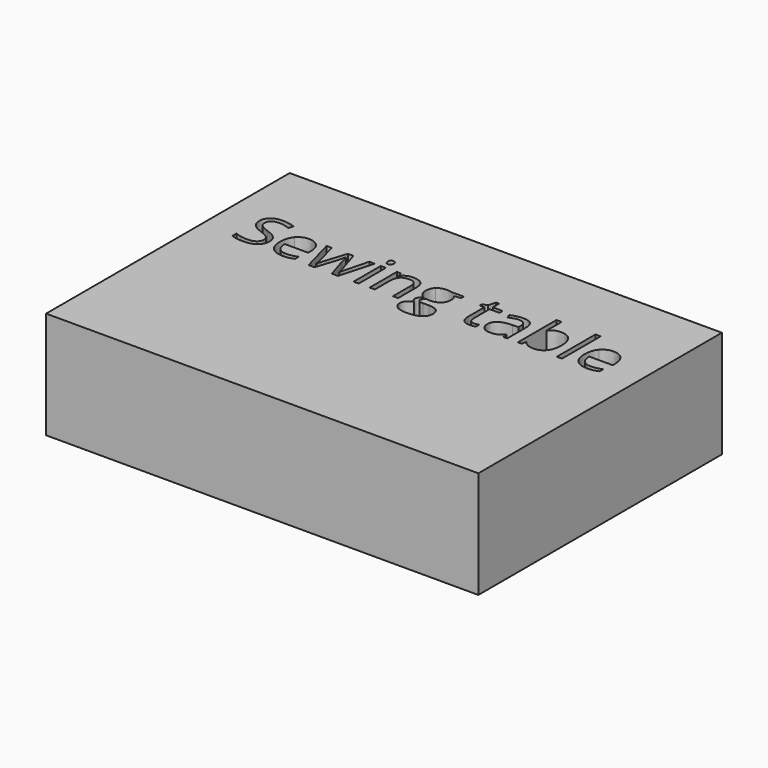
from build123d import *

# Parameters (mm, degrees)
F0_W     = 2921
F0_H     = 2057.4
F0_W_2   = 34.8487892566
F0_H_2   = 229.975150682
F0_H_3   = 326.5311409538
F1_DEPTH = 723.9


with BuildPart() as f1:
    # F0 (on Top) → F1 (new body)
    with BuildSketch(Plane.XY):
        Rectangle(F0_W, F0_H)
        with BuildLine():
            add(Edge.make_bspline(
                [(-1072.8592576927, 402.807852993), (-1054.7298297557, 383.0669203505), (-1054.7298297557, 351.6425785931)],
                knots=[0, 0, 0, 1, 1, 1], degree=2))
            add(Edge.make_bspline(
                [(-1054.7298297557, 351.6425785931), (-1054.7298297557, 311.1535228671), (-1084.1062176166, 288.4581649312)],
                knots=[0, 0, 0, 1, 1, 1], degree=2))
            add(Edge.make_bspline(
                [(-1084.1062176166, 288.4581649312), (-1113.4826054774, 265.7628069953), (-1163.8421275246, 265.7628069953)],
                knots=[0, 0, 0, 1, 1, 1], degree=2))
            add(Edge.make_bspline(
                [(-1163.8421275246, 265.7628069953), (-1218.3647033943, 265.7628069953), (-1247.7746642699, 279.8634731685)],
                knots=[0, 0, 0, 1, 1, 1], degree=2))
            Line((-1247.7746642699, 279.8634731685), (-1247.7746642699, 314.2422402194))
            add(Edge.make_bspline(
                [(-1247.7746642699, 314.2422402194), (-1228.8394839801, 306.3190087506), (-1206.61414825, 301.6859327223)],
                knots=[0, 0, 0, 1, 1, 1], degree=2))
            add(Edge.make_bspline(
                [(-1206.61414825, 301.6859327223), (-1184.3888125198, 297.0528566939), (-1162.5663529661, 297.0528566939)],
                knots=[0, 0, 0, 1, 1, 1], degree=2))
            add(Edge.make_bspline(
                [(-1162.5663529661, 297.0528566939), (-1126.9118113567, 297.0528566939), (-1108.8495294491, 310.5827816173)],
                knots=[0, 0, 0, 1, 1, 1], degree=2))
            add(Edge.make_bspline(
                [(-1108.8495294491, 310.5827816173), (-1090.7872475415, 324.1127065406), (-1090.7872475415, 348.2852771233)],
                knots=[0, 0, 0, 1, 1, 1], degree=2))
            add(Edge.make_bspline(
                [(-1090.7872475415, 348.2852771233), (-1090.7872475415, 364.1988860902), (-1097.1996933488, 374.3715095437)],
                knots=[0, 0, 0, 1, 1, 1], degree=2))
            add(Edge.make_bspline(
                [(-1097.1996933488, 374.3715095437), (-1103.6121391562, 384.5441329972), (-1118.6192767262, 393.1723977746)],
                knots=[0, 0, 0, 1, 1, 1], degree=2))
            add(Edge.make_bspline(
                [(-1118.6192767262, 393.1723977746), (-1133.6264142963, 401.800662552), (-1164.245003701, 412.6783193142)],
                knots=[0, 0, 0, 1, 1, 1], degree=2))
            add(Edge.make_bspline(
                [(-1164.245003701, 412.6783193142), (-1207.0170244264, 427.9876140166), (-1225.3814634662, 448.9707482029)],
                knots=[0, 0, 0, 1, 1, 1], degree=2))
            add(Edge.make_bspline(
                [(-1225.3814634662, 448.9707482029), (-1243.7459025061, 469.9538823892), (-1243.7459025061, 503.7283351755)],
                knots=[0, 0, 0, 1, 1, 1], degree=2))
            add(Edge.make_bspline(
                [(-1243.7459025061, 503.7283351755), (-1243.7459025061, 539.1814386967), (-1217.1225018505, 560.164572883)],
                knots=[0, 0, 0, 1, 1, 1], degree=2))
            add(Edge.make_bspline(
                [(-1217.1225018505, 560.164572883), (-1190.4991011949, 581.1477070693), (-1146.5855979698, 581.1477070693)],
                knots=[0, 0, 0, 1, 1, 1], degree=2))
            add(Edge.make_bspline(
                [(-1146.5855979698, 581.1477070693), (-1100.8591519509, 581.1477070693), (-1062.4516231363, 564.3611997203)],
                knots=[0, 0, 0, 1, 1, 1], degree=2))
            Line((-1062.4516231363, 564.3611997203), (-1073.5978640161, 533.3397341392))
            add(Edge.make_bspline(
                [(-1073.5978640161, 533.3397341392), (-1111.6025166543, 549.2533431061), (-1147.4584963519, 549.2533431061)],
                knots=[0, 0, 0, 1, 1, 1], degree=2))
            add(Edge.make_bspline(
                [(-1147.4584963519, 549.2533431061), (-1175.7941207571, 549.2533431061), (-1191.7413027387, 537.0999117854)],
                knots=[0, 0, 0, 1, 1, 1], degree=2))
            add(Edge.make_bspline(
                [(-1191.7413027387, 537.0999117854), (-1207.6884847203, 524.9464804647), (-1207.6884847203, 503.3254589991)],
                knots=[0, 0, 0, 1, 1, 1], degree=2))
            add(Edge.make_bspline(
                [(-1207.6884847203, 503.3254589991), (-1207.6884847203, 487.4118500322), (-1201.8132071481, 477.205653564)],
                knots=[0, 0, 0, 1, 1, 1], degree=2))
            add(Edge.make_bspline(
                [(-1201.8132071481, 477.205653564), (-1195.937929576, 466.9994570958), (-1181.9715554616, 458.5054843771)],
                knots=[0, 0, 0, 1, 1, 1], degree=2))
            add(Edge.make_bspline(
                [(-1181.9715554616, 458.5054843771), (-1168.0051813472, 450.0115116585), (-1139.2666807656, 439.7381691609)],
                knots=[0, 0, 0, 1, 1, 1], degree=2))
            add(Edge.make_bspline(
                [(-1139.2666807656, 439.7381691609), (-1090.9886856297, 422.5487856355), (-1072.8592576927, 402.807852993)],
                knots=[0, 0, 0, 1, 1, 1], degree=2))
        make_face(mode=Mode.SUBTRACT)
        with BuildLine():
            add(Edge.make_bspline(
                [(-860.2749286243, 269.2544005239), (-876.7257058264, 265.7628069953), (-900.0253780269, 265.7628069953)],
                knots=[0, 0, 0, 1, 1, 1], degree=2))
            add(Edge.make_bspline(
                [(-900.0253780269, 265.7628069953), (-950.9892143386, 265.7628069953), (-980.4998942582, 296.8514186058)],
                knots=[0, 0, 0, 1, 1, 1], degree=2))
            add(Edge.make_bspline(
                [(-980.4998942582, 296.8514186058), (-1010.0105741779, 327.9400302162), (-1010.0105741779, 383.0669203505)],
                knots=[0, 0, 0, 1, 1, 1], degree=2))
            add(Edge.make_bspline(
                [(-1010.0105741779, 383.0669203505), (-1010.0105741779, 438.73097872), (-982.6149941842, 471.4646680506)],
                knots=[0, 0, 0, 1, 1, 1], degree=2))
            add(Edge.make_bspline(
                [(-982.6149941842, 471.4646680506), (-955.2194141905, 504.1983573813), (-909.022945966, 504.1983573813)],
                knots=[0, 0, 0, 1, 1, 1], degree=2))
            add(Edge.make_bspline(
                [(-909.022945966, 504.1983573813), (-865.8480490642, 504.1983573813), (-840.6682880406, 475.762013932)],
                knots=[0, 0, 0, 1, 1, 1], degree=2))
            add(Edge.make_bspline(
                [(-840.6682880406, 475.762013932), (-815.488527017, 447.3256704827), (-815.488527017, 400.7263260817)],
                knots=[0, 0, 0, 1, 1, 1], degree=2))
            Line((-815.488527017, 400.7263260817), (-815.488527017, 378.7024284397))
            Line((-815.488527017, 378.7024284397), (-973.8860103627, 378.7024284397))
            add(Edge.make_bspline(
                [(-973.8860103627, 378.7024284397), (-972.8116738924, 338.2133727138), (-953.4064713968, 317.2302385275)],
                knots=[0, 0, 0, 1, 1, 1], degree=2))
            add(Edge.make_bspline(
                [(-953.4064713968, 317.2302385275), (-934.0012689013, 296.2471043412), (-898.7496034683, 296.2471043412)],
                knots=[0, 0, 0, 1, 1, 1], degree=2))
            add(Edge.make_bspline(
                [(-898.7496034683, 296.2471043412), (-861.6178492122, 296.2471043412), (-825.3589933383, 311.7578371317)],
                knots=[0, 0, 0, 1, 1, 1], degree=2))
            Line((-825.3589933383, 311.7578371317), (-825.3589933383, 280.6692255213))
            add(Edge.make_bspline(
                [(-825.3589933383, 280.6692255213), (-843.8241514222, 272.7459940525), (-860.2749286243, 269.2544005239)],
                knots=[0, 0, 0, 1, 1, 1], degree=2))
        make_face(mode=Mode.SUBTRACT)
        with BuildLine():
            Line((-526.8948926721, 269.9930068473), (-568.2568467802, 269.9930068473))
            Line((-568.2568467802, 269.9930068473), (-610.424553241, 404.8893799043))
            add(Edge.make_bspline(
                [(-610.424553241, 404.8893799043), (-614.4533150048, 417.3113953426), (-625.3309717669, 461.1577525383)],
                knots=[0, 0, 0, 1, 1, 1], degree=2))
            Line((-625.3309717669, 461.1577525383), (-627.0096225019, 461.1577525383))
            add(Edge.make_bspline(
                [(-627.0096225019, 461.1577525383), (-635.4028761764, 424.4288744586), (-641.7146029396, 404.4865037279)],
                knots=[0, 0, 0, 1, 1, 1], degree=2))
            Line((-641.7146029396, 404.4865037279), (-685.158083959, 269.9930068473))
            Line((-685.158083959, 269.9930068473), (-725.4457015967, 269.9930068473))
            Line((-725.4457015967, 269.9930068473), (-788.1600930528, 499.9681575293))
            Line((-788.1600930528, 499.9681575293), (-751.6326530612, 499.9681575293))
            add(Edge.make_bspline(
                [(-751.6326530612, 499.9681575293), (-729.4073173311, 413.2826335788), (-717.7574812308, 367.9590637363)],
                knots=[0, 0, 0, 1, 1, 1], degree=2))
            add(Edge.make_bspline(
                [(-717.7574812308, 367.9590637363), (-706.1076451306, 322.6354938939), (-704.4289943957, 306.9233230152)],
                knots=[0, 0, 0, 1, 1, 1], degree=2))
            Line((-704.4289943957, 306.9233230152), (-702.7503436608, 306.9233230152))
            add(Edge.make_bspline(
                [(-702.7503436608, 306.9233230152), (-700.4673786613, 318.8753162477), (-695.3307074125, 337.8776425668)],
                knots=[0, 0, 0, 1, 1, 1], degree=2))
            add(Edge.make_bspline(
                [(-695.3307074125, 337.8776425668), (-690.1940361637, 356.879968886), (-686.3667124881, 367.9590637363)],
                knots=[0, 0, 0, 1, 1, 1], degree=2))
            Line((-686.3667124881, 367.9590637363), (-644.1990060273, 499.9681575293))
            Line((-644.1990060273, 499.9681575293), (-606.4629375066, 499.9681575293))
            Line((-606.4629375066, 499.9681575293), (-565.3024214867, 367.9590637363))
            add(Edge.make_bspline(
                [(-565.3024214867, 367.9590637363), (-553.5518663424, 331.9016459506), (-549.3888125198, 307.3261991916)],
                knots=[0, 0, 0, 1, 1, 1], degree=2))
            Line((-549.3888125198, 307.3261991916), (-547.7101617849, 307.3261991916))
            add(Edge.make_bspline(
                [(-547.7101617849, 307.3261991916), (-546.8372634028, 314.9137005133), (-543.1778048007, 330.6594444067)],
                knots=[0, 0, 0, 1, 1, 1], degree=2))
            add(Edge.make_bspline(
                [(-543.1778048007, 330.6594444067), (-539.5183461986, 346.4051883002), (-499.432166649, 499.9681575293)],
                knots=[0, 0, 0, 1, 1, 1], degree=2))
            Line((-499.432166649, 499.9681575293), (-463.3747488633, 499.9681575293))
            Line((-463.3747488633, 499.9681575293), (-526.8948926721, 269.9930068473))
        make_face(mode=Mode.SUBTRACT)
        with Locations((-404.3869620387, 384.9805821883)):
            Rectangle(F0_W_2, F0_H_2, mode=Mode.SUBTRACT)
        with BuildLine():
            Line((-120.8628529132, 269.9930068473), (-155.7116421698, 269.9930068473))
            Line((-155.7116421698, 269.9930068473), (-155.7116421698, 418.7886079893))
            add(Edge.make_bspline(
                [(-155.7116421698, 418.7886079893), (-155.7116421698, 446.8556482769), (-168.5029607698, 460.7213033472)],
                knots=[0, 0, 0, 1, 1, 1], degree=2))
            add(Edge.make_bspline(
                [(-168.5029607698, 460.7213033472), (-181.2942793698, 474.5869584175), (-208.622713334, 474.5869584175)],
                knots=[0, 0, 0, 1, 1, 1], degree=2))
            add(Edge.make_bspline(
                [(-208.622713334, 474.5869584175), (-244.6801311198, 474.5869584175), (-261.4666384689, 455.0810368779)],
                knots=[0, 0, 0, 1, 1, 1], degree=2))
            add(Edge.make_bspline(
                [(-261.4666384689, 455.0810368779), (-278.2531458179, 435.5751153383), (-278.2531458179, 390.6544216723)],
                knots=[0, 0, 0, 1, 1, 1], degree=2))
            Line((-278.2531458179, 390.6544216723), (-278.2531458179, 269.9930068473))
            Line((-278.2531458179, 269.9930068473), (-313.1019350745, 269.9930068473))
            Line((-313.1019350745, 269.9930068473), (-313.1019350745, 499.9681575293))
            Line((-313.1019350745, 499.9681575293), (-284.7663106693, 499.9681575293))
            Line((-284.7663106693, 499.9681575293), (-279.1260442001, 468.4766697425))
            Line((-279.1260442001, 468.4766697425), (-277.4473934652, 468.4766697425))
            add(Edge.make_bspline(
                [(-277.4473934652, 468.4766697425), (-266.7040287618, 485.4646151797), (-247.3995453104, 494.8314862805)],
                knots=[0, 0, 0, 1, 1, 1], degree=2))
            add(Edge.make_bspline(
                [(-247.3995453104, 494.8314862805), (-228.0950618589, 504.1983573813), (-204.3925134821, 504.1983573813)],
                knots=[0, 0, 0, 1, 1, 1], degree=2))
            add(Edge.make_bspline(
                [(-204.3925134821, 504.1983573813), (-162.8291212858, 504.1983573813), (-141.8459870995, 484.1552676065)],
                knots=[0, 0, 0, 1, 1, 1], degree=2))
            add(Edge.make_bspline(
                [(-141.8459870995, 484.1552676065), (-120.8628529132, 464.1121778317), (-120.8628529132, 419.9972365184)],
                knots=[0, 0, 0, 1, 1, 1], degree=2))
            Line((-120.8628529132, 419.9972365184), (-120.8628529132, 269.9930068473))
        make_face(mode=Mode.SUBTRACT)
        with BuildLine():
            add(Edge.make_bspline(
                [(-418.8905043883, 544.7545591366), (-424.7657819605, 550.5291176647), (-424.7657819605, 562.279672809)],
                knots=[0, 0, 0, 1, 1, 1], degree=2))
            add(Edge.make_bspline(
                [(-424.7657819605, 562.279672809), (-424.7657819605, 574.2316660415), (-418.8905043883, 579.8047864814)],
                knots=[0, 0, 0, 1, 1, 1], degree=2))
            add(Edge.make_bspline(
                [(-418.8905043883, 579.8047864814), (-413.0152268161, 585.3779069213), (-404.1519509358, 585.3779069213)],
                knots=[0, 0, 0, 1, 1, 1], degree=2))
            add(Edge.make_bspline(
                [(-404.1519509358, 585.3779069213), (-395.7586972613, 585.3779069213), (-389.6819816009, 579.7040674373)],
                knots=[0, 0, 0, 1, 1, 1], degree=2))
            add(Edge.make_bspline(
                [(-389.6819816009, 579.7040674373), (-383.6052659406, 574.0302279533), (-383.6052659406, 562.279672809)],
                knots=[0, 0, 0, 1, 1, 1], degree=2))
            add(Edge.make_bspline(
                [(-383.6052659406, 562.279672809), (-383.6052659406, 550.5291176647), (-389.6819816009, 544.7545591366)],
                knots=[0, 0, 0, 1, 1, 1], degree=2))
            add(Edge.make_bspline(
                [(-389.6819816009, 544.7545591366), (-395.7586972613, 538.9800006085), (-404.1519509358, 538.9800006085)],
                knots=[0, 0, 0, 1, 1, 1], degree=2))
            add(Edge.make_bspline(
                [(-404.1519509358, 538.9800006085), (-413.0152268161, 538.9800006085), (-418.8905043883, 544.7545591366)],
                knots=[0, 0, 0, 1, 1, 1], degree=2))
        make_face(mode=Mode.SUBTRACT)
        with BuildLine():
            Line((59.3570899863, 499.9681575293), (138.8579887914, 499.9681575293))
            Line((138.8579887914, 499.9681575293), (138.8579887914, 477.9442598873))
            Line((138.8579887914, 477.9442598873), (96.2874061542, 472.9083076826))
            add(Edge.make_bspline(
                [(96.2874061542, 472.9083076826), (102.1291107116, 465.5893904784), (106.76218674, 453.7045432753)],
                knots=[0, 0, 0, 1, 1, 1], degree=2))
            add(Edge.make_bspline(
                [(106.76218674, 453.7045432753), (111.3952627683, 441.8196960722), (111.3952627683, 426.9804235756)],
                knots=[0, 0, 0, 1, 1, 1], degree=2))
            add(Edge.make_bspline(
                [(111.3952627683, 426.9804235756), (111.3952627683, 393.1388247599), (88.297028656, 372.9950159411)],
                knots=[0, 0, 0, 1, 1, 1], degree=2))
            add(Edge.make_bspline(
                [(88.297028656, 372.9950159411), (65.1987945437, 352.8512071222), (24.911176906, 352.8512071222)],
                knots=[0, 0, 0, 1, 1, 1], degree=2))
            add(Edge.make_bspline(
                [(24.911176906, 352.8512071222), (14.6378344084, 352.8512071222), (5.6402664693, 354.5298578571)],
                knots=[0, 0, 0, 1, 1, 1], degree=2))
            add(Edge.make_bspline(
                [(5.6402664693, 354.5298578571), (-16.5850692609, 342.7793027128), (-16.5850692609, 324.9856049228)],
                knots=[0, 0, 0, 1, 1, 1], degree=2))
            add(Edge.make_bspline(
                [(-16.5850692609, 324.9856049228), (-16.5850692609, 315.5180147779), (-8.8297028656, 311.0192308084)],
                knots=[0, 0, 0, 1, 1, 1], degree=2))
            add(Edge.make_bspline(
                [(-8.8297028656, 311.0192308084), (-1.0743364703, 306.5204468388), (17.79369779, 306.5204468388)],
                knots=[0, 0, 0, 1, 1, 1], degree=2))
            Line((17.79369779, 306.5204468388), (58.4841916041, 306.5204468388))
            add(Edge.make_bspline(
                [(58.4841916041, 306.5204468388), (95.8845299778, 306.5204468388), (115.8940467379, 290.7747029454)],
                knots=[0, 0, 0, 1, 1, 1], degree=2))
            add(Edge.make_bspline(
                [(115.8940467379, 290.7747029454), (135.9035634979, 275.028959052), (135.9035634979, 245.0146839119)],
                knots=[0, 0, 0, 1, 1, 1], degree=2))
            add(Edge.make_bspline(
                [(135.9035634979, 245.0146839119), (135.9035634979, 206.8085931854), (105.2849740933, 186.7655034107)],
                knots=[0, 0, 0, 1, 1, 1], degree=2))
            add(Edge.make_bspline(
                [(105.2849740933, 186.7655034107), (74.6663846886, 166.7224136359), (15.9136089669, 166.7224136359)],
                knots=[0, 0, 0, 1, 1, 1], degree=2))
            add(Edge.make_bspline(
                [(15.9136089669, 166.7224136359), (-29.2085227874, 166.7224136359), (-53.6496774876, 183.5089209849)],
                knots=[0, 0, 0, 1, 1, 1], degree=2))
            add(Edge.make_bspline(
                [(-53.6496774876, 183.5089209849), (-78.0908321878, 200.295428334), (-78.0908321878, 230.9811637681)],
                knots=[0, 0, 0, 1, 1, 1], degree=2))
            add(Edge.make_bspline(
                [(-78.0908321878, 230.9811637681), (-78.0908321878, 251.9307249397), (-64.6616263086, 267.2735926567)],
                knots=[0, 0, 0, 1, 1, 1], degree=2))
            add(Edge.make_bspline(
                [(-64.6616263086, 267.2735926567), (-51.2324204293, 282.6164603738), (-26.9255577879, 288.0552887548)],
                knots=[0, 0, 0, 1, 1, 1], degree=2))
            add(Edge.make_bspline(
                [(-26.9255577879, 288.0552887548), (-35.7216876388, 292.0169044892), (-41.697684255, 300.4101581638)],
                knots=[0, 0, 0, 1, 1, 1], degree=2))
            add(Edge.make_bspline(
                [(-41.697684255, 300.4101581638), (-47.6736808713, 308.8034118383), (-47.6736808713, 319.9496527181)],
                knots=[0, 0, 0, 1, 1, 1], degree=2))
            add(Edge.make_bspline(
                [(-47.6736808713, 319.9496527181), (-47.6736808713, 332.5059602151), (-40.9590779317, 341.97355036)],
                knots=[0, 0, 0, 1, 1, 1], degree=2))
            add(Edge.make_bspline(
                [(-40.9590779317, 341.97355036), (-34.2444749921, 351.4411405049), (-19.7409326425, 360.2372703558)],
                knots=[0, 0, 0, 1, 1, 1], degree=2))
            add(Edge.make_bspline(
                [(-19.7409326425, 360.2372703558), (-37.6017764619, 367.55618756), (-48.815163371, 385.1820202765)],
                knots=[0, 0, 0, 1, 1, 1], degree=2))
            add(Edge.make_bspline(
                [(-48.815163371, 385.1820202765), (-60.0285502802, 402.807852993), (-60.0285502802, 425.5032109289)],
                knots=[0, 0, 0, 1, 1, 1], degree=2))
            add(Edge.make_bspline(
                [(-60.0285502802, 425.5032109289), (-60.0285502802, 463.2392794496), (-37.366765359, 483.7188184154)],
                knots=[0, 0, 0, 1, 1, 1], degree=2))
            add(Edge.make_bspline(
                [(-37.366765359, 483.7188184154), (-14.7049804378, 504.1983573813), (26.7912657291, 504.1983573813)],
                knots=[0, 0, 0, 1, 1, 1], degree=2))
            add(Edge.make_bspline(
                [(26.7912657291, 504.1983573813), (44.8535476367, 504.1983573813), (59.3570899863, 499.9681575293)],
                knots=[0, 0, 0, 1, 1, 1], degree=2))
        make_face(mode=Mode.SUBTRACT)
        with BuildLine():
            add(Edge.make_bspline(
                [(344.9291530084, 305.6811214714), (354.7996193296, 294.5684536063), (371.989002855, 294.5684536063)],
                knots=[0, 0, 0, 1, 1, 1], degree=2))
            add(Edge.make_bspline(
                [(371.989002855, 294.5684536063), (381.2551549117, 294.5684536063), (389.8498466744, 295.9113741942)],
                knots=[0, 0, 0, 1, 1, 1], degree=2))
            add(Edge.make_bspline(
                [(389.8498466744, 295.9113741942), (398.4445384371, 297.2542947821), (403.4804906419, 298.7315074288)],
                knots=[0, 0, 0, 1, 1, 1], degree=2))
            Line((403.4804906419, 298.7315074288), (403.4804906419, 272.0745337585))
            add(Edge.make_bspline(
                [(403.4804906419, 272.0745337585), (397.8402241726, 269.3886925827), (386.8282753516, 267.575749789)],
                knots=[0, 0, 0, 1, 1, 1], degree=2))
            add(Edge.make_bspline(
                [(386.8282753516, 267.575749789), (375.8163265306, 265.7628069953), (366.9530506503, 265.7628069953)],
                knots=[0, 0, 0, 1, 1, 1], degree=2))
            add(Edge.make_bspline(
                [(366.9530506503, 265.7628069953), (300.2770434599, 265.7628069953), (300.2770434599, 336.0646997731)],
                knots=[0, 0, 0, 1, 1, 1], degree=2))
            Line((300.2770434599, 336.0646997731), (300.2770434599, 472.9083076826))
            Line((300.2770434599, 472.9083076826), (267.3083430263, 472.9083076826))
            Line((267.3083430263, 472.9083076826), (267.3083430263, 489.6948150317))
            Line((267.3083430263, 489.6948150317), (300.2770434599, 504.1983573813))
            Line((300.2770434599, 504.1983573813), (314.9148778682, 553.2821048699))
            Line((314.9148778682, 553.2821048699), (335.0586866871, 553.2821048699))
            Line((335.0586866871, 553.2821048699), (335.0586866871, 499.9681575293))
            Line((335.0586866871, 499.9681575293), (401.8018399069, 499.9681575293))
            Line((401.8018399069, 499.9681575293), (401.8018399069, 472.9083076826))
            Line((401.8018399069, 472.9083076826), (335.0586866871, 472.9083076826))
            Line((335.0586866871, 472.9083076826), (335.0586866871, 337.5419124199))
            add(Edge.make_bspline(
                [(335.0586866871, 337.5419124199), (335.0586866871, 316.7937893364), (344.9291530084, 305.6811214714)],
                knots=[0, 0, 0, 1, 1, 1], degree=2))
        make_face(mode=Mode.SUBTRACT)
        with BuildLine():
            Line((616.6691339748, 269.9930068473), (590.8179126573, 269.9930068473))
            Line((590.8179126573, 269.9930068473), (583.9018716295, 302.7602691926))
            Line((583.9018716295, 302.7602691926), (582.2232208946, 302.7602691926))
            add(Edge.make_bspline(
                [(582.2232208946, 302.7602691926), (565.0338373691, 281.139247727), (547.9451728878, 273.4510273612)],
                knots=[0, 0, 0, 1, 1, 1], degree=2))
            add(Edge.make_bspline(
                [(547.9451728878, 273.4510273612), (530.8565084065, 265.7628069953), (505.2067251771, 265.7628069953)],
                knots=[0, 0, 0, 1, 1, 1], degree=2))
            add(Edge.make_bspline(
                [(505.2067251771, 265.7628069953), (471.0293962144, 265.7628069953), (451.6241937189, 283.4222127265)],
                knots=[0, 0, 0, 1, 1, 1], degree=2))
            add(Edge.make_bspline(
                [(451.6241937189, 283.4222127265), (432.2189912234, 301.0816184577), (432.2189912234, 333.5802966855)],
                knots=[0, 0, 0, 1, 1, 1], degree=2))
            add(Edge.make_bspline(
                [(432.2189912234, 333.5802966855), (432.2189912234, 403.2107291694), (543.6142539918, 406.5680306392)],
                knots=[0, 0, 0, 1, 1, 1], degree=2))
            Line((543.6142539918, 406.5680306392), (582.626097071, 407.8438051977))
            Line((582.626097071, 407.8438051977), (582.626097071, 422.1459094591))
            add(Edge.make_bspline(
                [(582.626097071, 422.1459094591), (582.626097071, 449.2057593058), (571.0098339854, 462.0977969498)],
                knots=[0, 0, 0, 1, 1, 1], degree=2))
            add(Edge.make_bspline(
                [(571.0098339854, 462.0977969498), (559.3935708999, 474.9898345939), (533.7437876705, 474.9898345939)],
                knots=[0, 0, 0, 1, 1, 1], degree=2))
            add(Edge.make_bspline(
                [(533.7437876705, 474.9898345939), (505.0052870889, 474.9898345939), (468.746431215, 457.3975748921)],
                knots=[0, 0, 0, 1, 1, 1], degree=2))
            Line((468.746431215, 457.3975748921), (458.0030665116, 484.0545485624))
            add(Edge.make_bspline(
                [(458.0030665116, 484.0545485624), (474.9910119488, 493.2535545897), (495.2355398118, 498.4909448826)],
                knots=[0, 0, 0, 1, 1, 1], degree=2))
            add(Edge.make_bspline(
                [(495.2355398118, 498.4909448826), (515.4800676747, 503.7283351755), (535.8924606112, 503.7283351755)],
                knots=[0, 0, 0, 1, 1, 1], degree=2))
            add(Edge.make_bspline(
                [(535.8924606112, 503.7283351755), (576.9858306017, 503.7283351755), (596.8274822883, 485.4981881944)],
                knots=[0, 0, 0, 1, 1, 1], degree=2))
            add(Edge.make_bspline(
                [(596.8274822883, 485.4981881944), (616.6691339748, 467.2680412133), (616.6691339748, 426.9804235756)],
                knots=[0, 0, 0, 1, 1, 1], degree=2))
            Line((616.6691339748, 426.9804235756), (616.6691339748, 269.9930068473))
        make_face(mode=Mode.SUBTRACT)
        with BuildLine():
            add(Edge.make_bspline(
                [(723.2298826266, 469.3495681246), (747.5367452681, 503.7283351755), (795.4118642276, 503.7283351755)],
                knots=[0, 0, 0, 1, 1, 1], degree=2))
            add(Edge.make_bspline(
                [(795.4118642276, 503.7283351755), (840.73543407, 503.7283351755), (865.8144760495, 472.7740156238)],
                knots=[0, 0, 0, 1, 1, 1], degree=2))
            add(Edge.make_bspline(
                [(865.8144760495, 472.7740156238), (890.893518029, 441.8196960722), (890.893518029, 385.2155932912)],
                knots=[0, 0, 0, 1, 1, 1], degree=2))
            add(Edge.make_bspline(
                [(890.893518029, 385.2155932912), (890.893518029, 328.5443444808), (865.6130379613, 297.153575738)],
                knots=[0, 0, 0, 1, 1, 1], degree=2))
            add(Edge.make_bspline(
                [(865.6130379613, 297.153575738), (840.3325578936, 265.7628069953), (795.4118642276, 265.7628069953)],
                knots=[0, 0, 0, 1, 1, 1], degree=2))
            add(Edge.make_bspline(
                [(795.4118642276, 265.7628069953), (772.9179443798, 265.7628069953), (754.3520672518, 274.0553416257)],
                knots=[0, 0, 0, 1, 1, 1], degree=2))
            add(Edge.make_bspline(
                [(754.3520672518, 274.0553416257), (735.7861901237, 282.3478762562), (723.2298826266, 299.604405811)],
                knots=[0, 0, 0, 1, 1, 1], degree=2))
            Line((723.2298826266, 299.604405811), (720.6783335096, 299.604405811))
            Line((720.6783335096, 299.604405811), (713.3594163054, 269.9930068473))
            Line((713.3594163054, 269.9930068473), (688.38109337, 269.9930068473))
            Line((688.38109337, 269.9930068473), (688.38109337, 596.5241478011))
            Line((688.38109337, 596.5241478011), (723.2298826266, 596.5241478011))
            Line((723.2298826266, 596.5241478011), (723.2298826266, 517.1575410547))
            add(Edge.make_bspline(
                [(723.2298826266, 517.1575410547), (723.2298826266, 490.5005673844), (721.5512318917, 469.3495681246)],
                knots=[0, 0, 0, 1, 1, 1], degree=2))
            Line((721.5512318917, 469.3495681246), (723.2298826266, 469.3495681246))
        make_face(mode=Mode.SUBTRACT)
        with Locations((969.1522152903, 433.2585773242)):
            Rectangle(F0_W_2, F0_H_3, mode=Mode.SUBTRACT)
        with BuildLine():
            add(Edge.make_bspline(
                [(1197.3479961933, 269.2544005239), (1180.8972189912, 265.7628069953), (1157.5975467907, 265.7628069953)],
                knots=[0, 0, 0, 1, 1, 1], degree=2))
            add(Edge.make_bspline(
                [(1157.5975467907, 265.7628069953), (1106.633710479, 265.7628069953), (1077.1230305594, 296.8514186058)],
                knots=[0, 0, 0, 1, 1, 1], degree=2))
            add(Edge.make_bspline(
                [(1077.1230305594, 296.8514186058), (1047.6123506397, 327.9400302162), (1047.6123506397, 383.0669203505)],
                knots=[0, 0, 0, 1, 1, 1], degree=2))
            add(Edge.make_bspline(
                [(1047.6123506397, 383.0669203505), (1047.6123506397, 438.73097872), (1075.0079306334, 471.4646680506)],
                knots=[0, 0, 0, 1, 1, 1], degree=2))
            add(Edge.make_bspline(
                [(1075.0079306334, 471.4646680506), (1102.403510627, 504.1983573813), (1148.5999788516, 504.1983573813)],
                knots=[0, 0, 0, 1, 1, 1], degree=2))
            add(Edge.make_bspline(
                [(1148.5999788516, 504.1983573813), (1191.7748757534, 504.1983573813), (1216.954636777, 475.762013932)],
                knots=[0, 0, 0, 1, 1, 1], degree=2))
            add(Edge.make_bspline(
                [(1216.954636777, 475.762013932), (1242.1343978006, 447.3256704827), (1242.1343978006, 400.7263260817)],
                knots=[0, 0, 0, 1, 1, 1], degree=2))
            Line((1242.1343978006, 400.7263260817), (1242.1343978006, 378.7024284397))
            Line((1242.1343978006, 378.7024284397), (1083.7369144549, 378.7024284397))
            add(Edge.make_bspline(
                [(1083.7369144549, 378.7024284397), (1084.8112509252, 338.2133727138), (1104.2164534207, 317.2302385275)],
                knots=[0, 0, 0, 1, 1, 1], degree=2))
            add(Edge.make_bspline(
                [(1104.2164534207, 317.2302385275), (1123.6216559163, 296.2471043412), (1158.8733213493, 296.2471043412)],
                knots=[0, 0, 0, 1, 1, 1], degree=2))
            add(Edge.make_bspline(
                [(1158.8733213493, 296.2471043412), (1196.0050756054, 296.2471043412), (1232.2639314793, 311.7578371317)],
                knots=[0, 0, 0, 1, 1, 1], degree=2))
            Line((1232.2639314793, 311.7578371317), (1232.2639314793, 280.6692255213))
            add(Edge.make_bspline(
                [(1232.2639314793, 280.6692255213), (1213.7987733954, 272.7459940525), (1197.3479961933, 269.2544005239)],
                knots=[0, 0, 0, 1, 1, 1], degree=2))
        make_face(mode=Mode.SUBTRACT)
    extrude(amount=F1_DEPTH)


solid = f1.part
